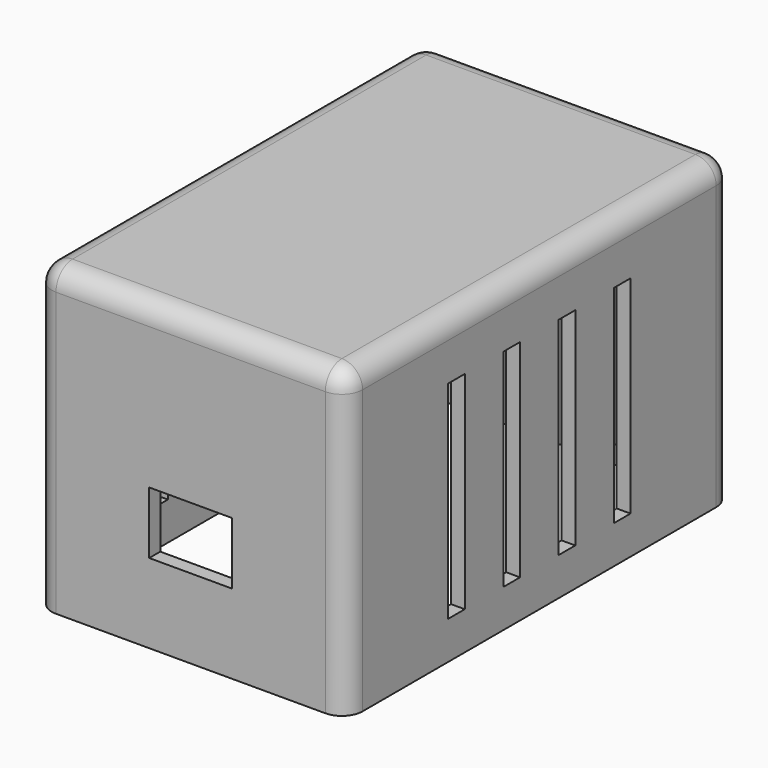
from build123d import *

# Parameters (mm, degrees)
CYLINDER_R        = 1
CYLINDER_DEPTH    = 32
BOX002_W          = 10
BOX002_H          = 10
BOX002_DEPTH      = 33
FILLET_R          = 3
BOX003_W          = 12
BOX003_H          = 20
BOX003_DEPTH      = 9
CYLINDER001_R     = 4.5
CYLINDER001_DEPTH = 10
BOX004_W          = 60
BOX004_H          = 3
BOX004_DEPTH      = 30
ARRAY_Y_COUNT     = 4
ARRAY_Y_PITCH     = 10
BOX_W             = 41
BOX_H             = 66
BOX_DEPTH         = 44
BOX001_W          = 45
BOX001_H          = 70
BOX001_DEPTH      = 44
FILLET001_R       = 3


with BuildPart() as cylinder:
    # Cylinder → Cylinder (new body)
    with BuildSketch(Plane(origin=(4, 6, 2), x_dir=(1, 0, 0), z_dir=(0, 0, 1))):
        Circle(CYLINDER_R)
    extrude(amount=CYLINDER_DEPTH)


with BuildPart() as fillet_body:
    # Box002 → Box002 (new body)
    with BuildSketch(Plane.XY.offset(2)):
        with Locations((5, 5)):
            Rectangle(BOX002_W, BOX002_H)
    extrude(amount=BOX002_DEPTH)

    # Cut: cut Cylinder
    add(cylinder.part, mode=Mode.SUBTRACT)


with BuildPart() as fillet_body_1:
    # Cut placement: moved
    add(fillet_body.part.moved(Location((12, -2, 0))))

    # Fillet
    fillet_edges = [fillet_body_1.edges().sort_by_distance(p)[0] for p in [
        (12, 8, 18.5),
        (22, -2, 18.5),
    ]]
    fillet(fillet_edges, radius=FILLET_R)


with BuildPart() as part_mirroring:
    # Part__Mirroring: instance of Fillet body
    add(fillet_body_1.part.mirror(Plane(origin=(0, 0, 0), x_dir=(0, -1, 0), z_dir=(1, 0, 0))))


with BuildPart() as part_mirroring001:
    # Part__Mirroring001: instance of Part__Mirroring
    add(part_mirroring.part.mirror(Plane(origin=(0, 32.5, 0), x_dir=(1, 0, 0), z_dir=(0, 1, 0))))


with BuildPart() as part_mirroring002:
    # Part__Mirroring002: instance of Part__Mirroring001
    add(part_mirroring001.part.mirror(Plane(origin=(0, 0, 0), x_dir=(0, -1, 0), z_dir=(1, 0, 0))))


with BuildPart() as usb_hole_cube:
    # Box003 → Box003 (new body)
    with BuildSketch(Plane(origin=(-6, -8, 5.5), x_dir=(1, 0, 0), z_dir=(0, 0, 1))):
        with Locations((6, 10)):
            Rectangle(BOX003_W, BOX003_H)
    extrude(amount=BOX003_DEPTH)


with BuildPart() as wires_hole:
    # Cylinder001 → Cylinder001 (new body)
    with BuildSketch(Plane(origin=(0, 73, 21), x_dir=(1, 0, 0), z_dir=(0, -1, 0))):
        Circle(CYLINDER001_R)
    extrude(amount=CYLINDER001_DEPTH)


with BuildPart() as array:
    # Box004 → Box004 (new body)
    with BuildSketch(Plane(origin=(-31, 16, -0.5), x_dir=(1, 0, 0), z_dir=(0, 0, 1))):
        with Locations((30, 1.5)):
            Rectangle(BOX004_W, BOX004_H)
    extrude(amount=BOX004_DEPTH)

    # Array Y: Array ×4


with BuildPart() as array_1:
    add(array.part)
    with Locations(*[(0, i * ARRAY_Y_PITCH, 0) for i in range(1, ARRAY_Y_COUNT)]):
        add(array.part)


with BuildPart() as fusion:
    # Box → Box (new body)
    with BuildSketch(Plane(origin=(-20.5, -0.5, -8), x_dir=(1, 0, 0), z_dir=(0, 0, 1))):
        with Locations((20.5, 33)):
            Rectangle(BOX_W, BOX_H)
    extrude(amount=BOX_DEPTH)

    # Fusion: union usb hole cube, wires hole, Array
    add(usb_hole_cube.part)
    add(wires_hole.part)
    add(array_1.part)


with BuildPart() as fillet001:
    # Box001 → Box001 (new body)
    with BuildSketch(Plane(origin=(-22.5, -2.5, -6), x_dir=(1, 0, 0), z_dir=(0, 0, 1))):
        with Locations((22.5, 35)):
            Rectangle(BOX001_W, BOX001_H)
    extrude(amount=BOX001_DEPTH)

    # Cut001: cut Fusion
    add(fusion.part, mode=Mode.SUBTRACT)

    # Fusion001: union Part__Mirroring002
    add(part_mirroring002.part)

    # Fillet001
    fillet001_edges = [fillet001.edges().sort_by_distance(p)[0] for p in [
        (-22.5, -2.5, 16),
        (-22.5, 32.5, 38),
        (-22.5, 67.5, 16),
        (22.5, -2.5, 16),
        (0, -2.5, 38),
        (0, 67.5, 38),
        (22.5, 32.5, 38),
        (22.5, 67.5, 16),
    ]]
    fillet(fillet001_edges, radius=FILLET001_R)


solid = fillet001.part
